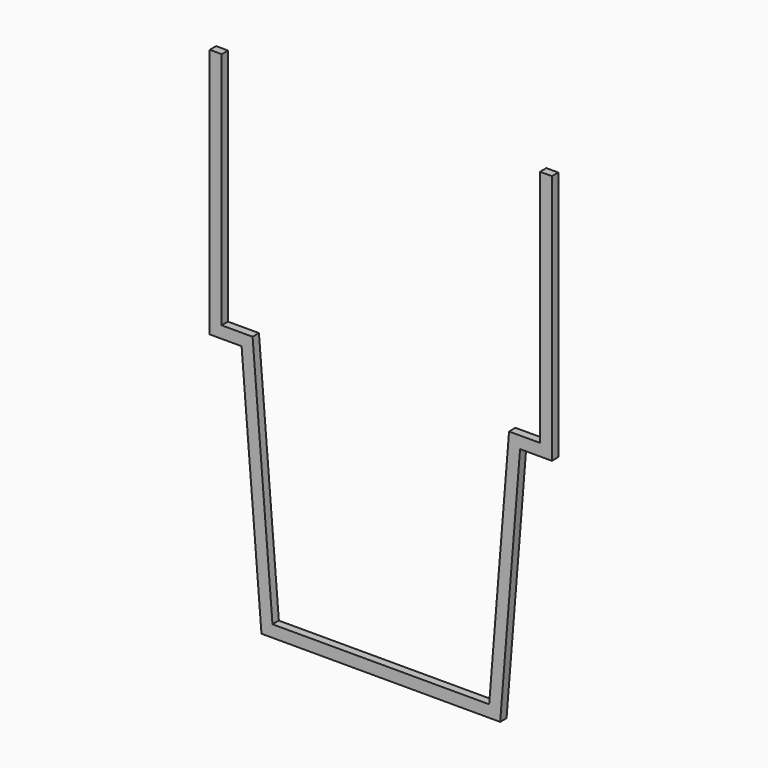
from build123d import *

# Parameters (mm, degrees)
F1_DEPTH = 2


with BuildPart() as f1:
    # F0 (on Front) → F1 (new body)
    with BuildSketch(Plane.XZ):
        Polygon((0, 3), (0, 0), (30, 0), (35, 62), (43, 62), (43, 125), (40, 125), (40, 65), (32.232196, 65), (27.232196, 3), align=None)
    extrude(amount=F1_DEPTH)

    # F2: F1 across plane


with BuildPart() as f1_1:
    add(f1.part)
    add(f1.part.mirror(Plane.YZ))


solid = f1_1.part
